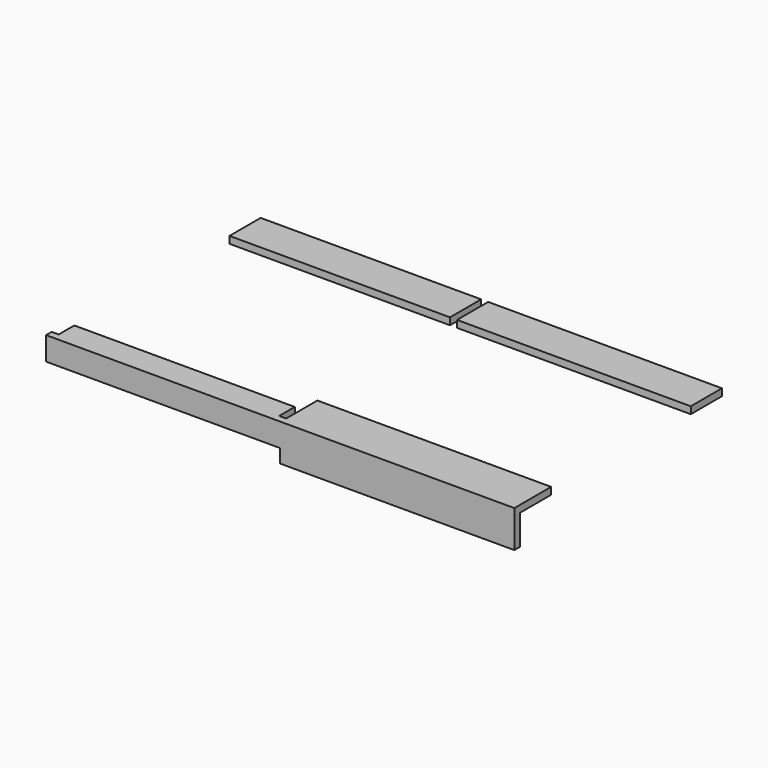
from build123d import *

# Parameters (mm, degrees)
F0_W     = 100
F0_H     = 18
F1_DEPTH = 1202
F2_W     = 18
F2_H     = 648
F3_DEPTH = 95
F4_W     = 600
F4_H     = 35
F5_DEPTH = 25
F6_W     = 18
F6_H     = 50
F6_W_2   = 566
F6_W_3   = 39.871224
F7_DEPTH = 18


with BuildPart() as f1:
    # F0 (on Right) → F1 (new body)
    with BuildSketch(Plane.YZ):
        with Locations((372.265983, -9)):
            Rectangle(F0_W, F0_H)
        Polygon((-125.734017, -18), (-125.734017, 0), (-243.734017, 0), (-243.734017, -95), (-225.734017, -95), (-225.734017, -18), align=None)
    extrude(amount=F1_DEPTH)

    # F2 (on face) → F3 (cut)
    with BuildSketch(Plane.XY):
        with Locations((593, 98.265983)):
            Rectangle(F2_W, F2_H)
        with Locations((9, 98.265983)):
            Rectangle(F2_W, F2_H)
    extrude(amount=-F3_DEPTH, mode=Mode.SUBTRACT)

    # F4 (on face) → F5 (cut)
    with BuildSketch(Plane.XZ.offset(243.734017)):
        with Locations((300, -77.5)):
            Rectangle(F4_W, F4_H)
    extrude(amount=-F5_DEPTH, mode=Mode.SUBTRACT)

    # F6 (on face) → F7 (cut)
    with BuildSketch(Plane.XY):
        with Locations((593, -150.734017)):
            Rectangle(F6_W, F6_H)
        with Locations((301, -150.734017)):
            Rectangle(F6_W_2, F6_H)
        with Locations((-1.935612, -150.734017)):
            Rectangle(F6_W_3, F6_H)
    extrude(amount=-F7_DEPTH, mode=Mode.SUBTRACT)


solid = f1.part
